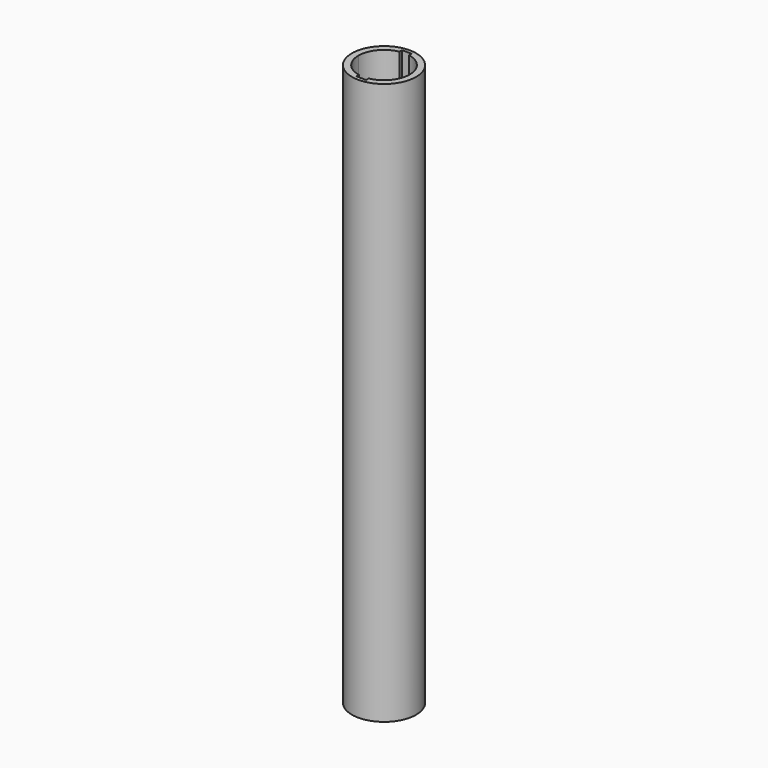
from build123d import *

# Parameters (mm, degrees)
F0_R     = 10
F0_R_2   = 9
F1_DEPTH = 150
F2_DEPTH = 25


with BuildPart() as f1:
    # F0 (on Top) → F1 (new body)
    with BuildSketch(Plane.XY):
        Circle(F0_R)
        Circle(F0_R_2, mode=Mode.SUBTRACT)
        Circle(F0_R_2)
        with BuildLine():
            ThreePointArc((1.5, 7.858117), (6.164414, 5.09902), (8, 0))
            ThreePointArc((8, 0), (6.164414, -5.09902), (1.5, -7.858117))
            Line((1.5, -7.858117), (1.5, -8.858117))
            Line((1.5, -8.858117), (-1.5, -8.858117))
            Line((-1.5, -8.858117), (-1.5, -7.858117))
            ThreePointArc((-1.5, -7.858117), (-6.164414, -5.09902), (-8, 0))
            ThreePointArc((-8, 0), (-6.164414, 5.09902), (-1.5, 7.858117))
            Line((-1.5, 7.858117), (-1.5, 8.858117))
            Line((-1.5, 8.858117), (1.5, 8.858117))
            Line((1.5, 8.858117), (1.5, 7.858117))
        make_face(mode=Mode.SUBTRACT)
    extrude(amount=F1_DEPTH)

    # F0 (on Top) → F2 (join)
    with BuildSketch(Plane.XY):
        Circle(F0_R)
        Circle(F0_R_2, mode=Mode.SUBTRACT)
    extrude(amount=-F2_DEPTH)


solid = f1.part
